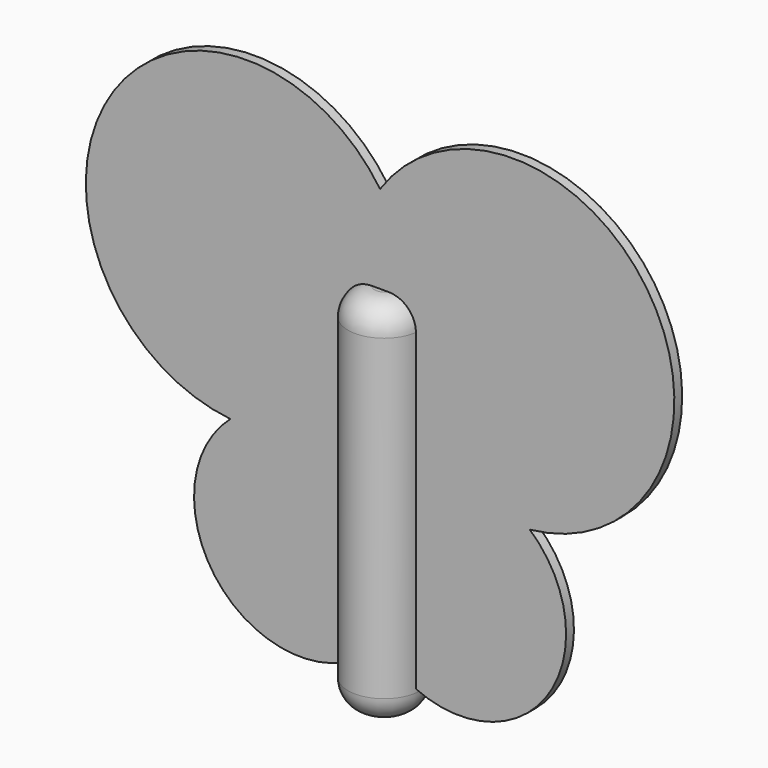
from build123d import *

# Parameters (mm, degrees)
F1_DEPTH = 2.794
F2_R     = 10.311157
F3_DEPTH = 52.832
F4_R     = 7.62


with BuildPart() as f1:
    # F0 (on Front) → F1 (new body)
    with BuildSketch(Plane.XZ):
        with BuildLine():
            ThreePointArc((3.726169, 77.880541), (-73.645444, 75.509353), (-38.943787, 6.315538))
            ThreePointArc((-38.943787, 6.315538), (-40.482903, -37.881597), (3.726169, -36.735482))
            ThreePointArc((3.726169, -36.735482), (47.935241, -37.881597), (46.396125, 6.315538))
            ThreePointArc((46.396125, 6.315538), (81.097782, 75.509353), (3.726169, 77.880541))
        make_face()
    extrude(amount=-F1_DEPTH)

    # F2 (on Top) → F3 (join, symmetric)
    with BuildSketch(Plane.XY):
        with Locations((3.726171, 1.462447)):
            Circle(F2_R)
    extrude(amount=F3_DEPTH, both=True)

    # F4
    f4_edges = [f1.edges().sort_by_distance(p)[0] for p in [
        (3.726171, 11.773604, 52.832),
        (3.726171, -8.84871, 52.832),
        (-6.584986, 1.462447, -52.832),
    ]]
    fillet(f4_edges, radius=F4_R)


solid = f1.part
